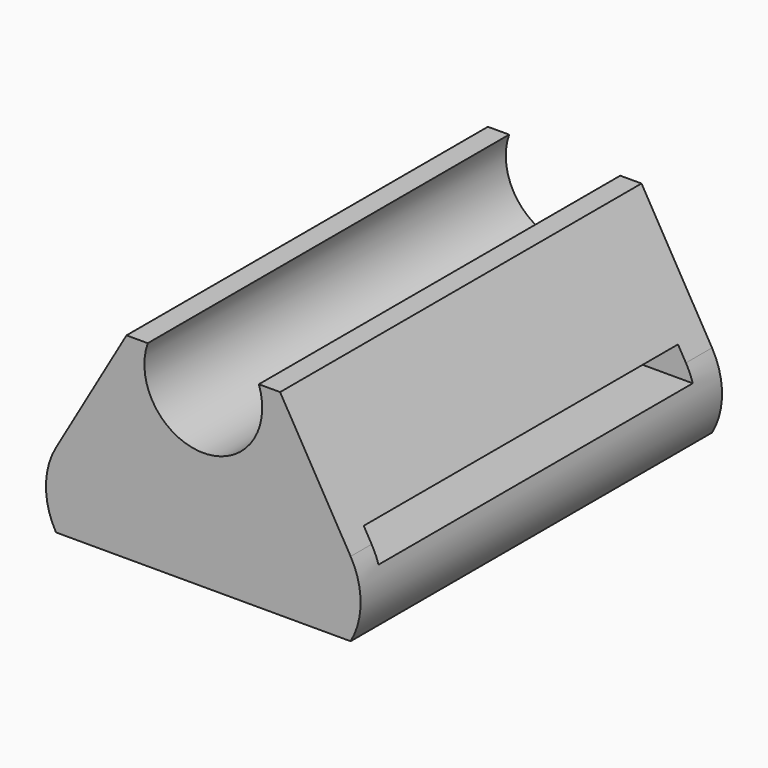
from build123d import *

# Parameters (mm, degrees)
F2_DEPTH = 11.5
F3_W     = 20
F3_H     = 1.5
F4_DEPTH = 12.5


with BuildPart() as f2:
    # F1 (on Front) → F2 (new body, symmetric)
    with BuildSketch(Plane.XZ):
        with BuildLine():
            ThreePointArc((2.8284271247, 10), (0, 6), (-2.8284271247, 10))
            Line((-2.8284271247, 10), (-3.9100694971, 10))
            Line((-3.9100694971, 10), (-7.5, 3.8031570148))
            ThreePointArc((-7.5, 3.8031570148), (-8.011027857, 1.9015785074), (-7.5, 0))
            Line((-7.5, 0), (7.5, 0))
            ThreePointArc((7.5, 0), (8.011027857, 1.9015785074), (7.5, 3.8031570148))
            Line((7.5, 3.8031570148), (3.9100694971, 10))
            Line((3.9100694971, 10), (2.8284271247, 10))
        make_face()
    extrude(amount=F2_DEPTH, both=True)

    # F3 (on Right) → F4 (cut, symmetric)
    with BuildSketch(Plane.YZ):
        with Locations((-0.1611583866, 3.75)):
            Rectangle(F3_W, F3_H)
    extrude(amount=F4_DEPTH, both=True, mode=Mode.SUBTRACT)


solid = f2.part
